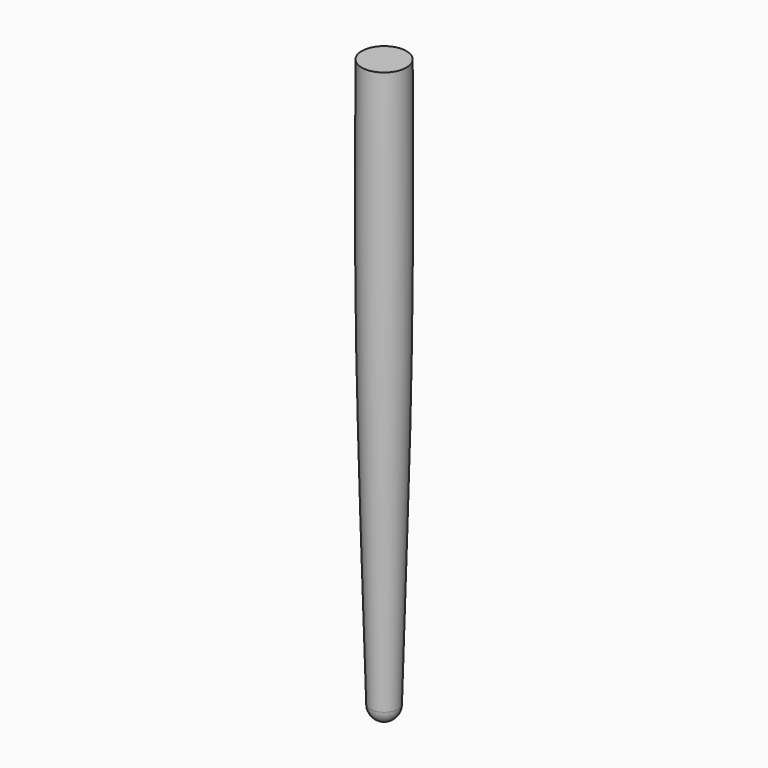
from build123d import *


with BuildPart() as f1:
    # F0 (on Front) → F1 (revolve)
    with BuildSketch(Plane.XZ):
        with BuildLine():
            Line((0, -15.875), (0, 644.525))
            Line((0, 644.525), (-25.4, 644.525))
            add(Edge.make_bspline(
                [(-25.4, 644.525), (-25.9533032218, 566.8152405015), (-27.2071472286, 390.7166522965), (-19.9369592151, 140.0506959777), (-15.875, 0)],
                knots=[0, 0, 0, 0, 0.4412855338, 1, 1, 1, 1], degree=3))
            ThreePointArc((-15.875, 0), (-11.2253201513, -11.2253201513), (0, -15.875))
        make_face()
    revolve(axis=Axis((0, 0, 314.325), (0, 0, 1)))


solid = f1.part
